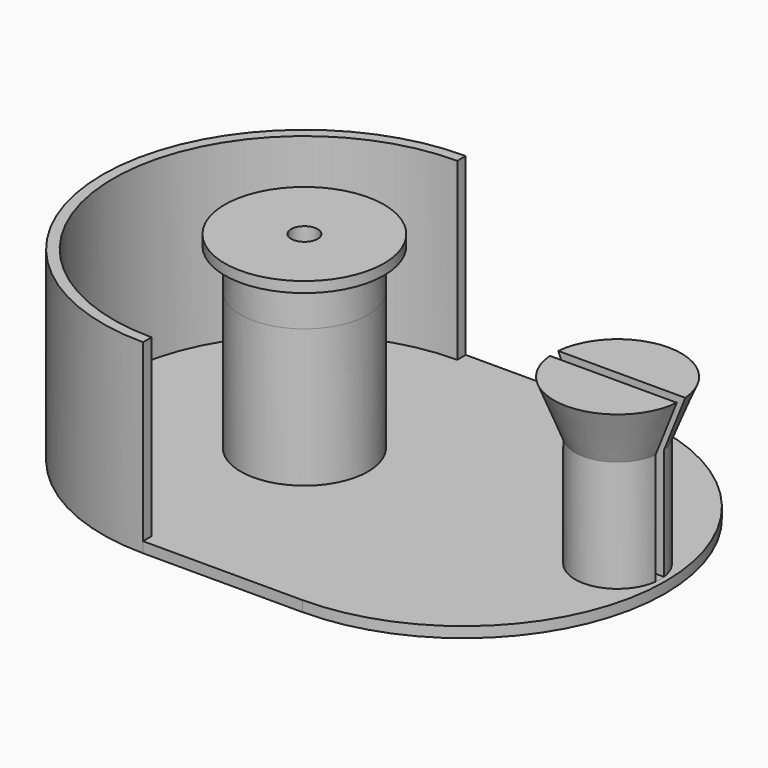
from build123d import *

# Parameters (mm, degrees)
EXTRUDE_DEPTH     = 4
CYLINDER004_R     = 2.5
CYLINDER004_DEPTH = 30
BOX_W             = 30
BOX_H             = 76
BOX_DEPTH         = 2
CYLINDER003_W     = 36
CYLINDER003_H     = 35
CYLINDER003_ANGLE = 180
CYLINDER_W        = 38
CYLINDER_H        = 35
CYLINDER_ANGLE    = 180
CYLINDER005_W     = 38
CYLINDER005_H     = 2
CYLINDER005_ANGLE = 180
CYLINDER001_R     = 12
CYLINDER001_DEPTH = 28
BOX001_W          = 30
BOX001_H          = 2
BOX001_DEPTH      = 35
CYLINDER002_R     = 8
CYLINDER002_DEPTH = 32
CYLINDER007_R     = 2.5
CYLINDER007_DEPTH = 30
CYLINDER006_R     = 12
CYLINDER006_DEPTH = 9
CYLINDER008_R     = 15
CYLINDER008_DEPTH = 2


with BuildPart() as cone:
    # Cone → Cone (revolve)
    with BuildSketch(Plane.XZ):
        Polygon((0, 0), (10, 0), (2.5, 21), (0, 21), align=None)
    revolve(axis=Axis((0, 0, 0), (0, 0, 1)))


with BuildPart() as nut_extrude:
    # RegularPolygon → Extrude (new body)
    with BuildSketch(Plane(origin=(0, 0, 0), x_dir=(0, 1, 0), z_dir=(0, 0, 1))):
        Polygon((0, -4.25), (3.680608, -2.125), (3.680608, 2.125), (0, 4.25), (-3.680608, 2.125), (-3.680608, -2.125), align=None)
    extrude(amount=EXTRUDE_DEPTH)


with BuildPart() as nut_extrude_1:
    # Extrude placement: moved
    add(nut_extrude.part.moved(Location((0, 0, 24))))


with BuildPart() as central_hole_fusion:
    # Cylinder004 → Cylinder004 (new body)
    with BuildSketch(Plane.XY):
        Circle(CYLINDER004_R)
    extrude(amount=CYLINDER004_DEPTH)

    # Fusion: union Cone, nut extrude
    add(cone.part)
    add(nut_extrude_1.part)


with BuildPart() as bottom_cube:
    # Box → Box (new body)
    with BuildSketch(Plane(origin=(0, -38, 0), x_dir=(1, 0, 0), z_dir=(0, 0, 1))):
        with Locations((15, 38)):
            Rectangle(BOX_W, BOX_H)
    extrude(amount=BOX_DEPTH)


with BuildPart() as extraction_cylinder:
    # Cylinder003 → Cylinder003 (revolve)
    with BuildSketch(Plane(origin=(0, 0, 2), x_dir=(0, 1, 0), z_dir=(1, 0, 0))):
        with Locations((18, 17.5)):
            Rectangle(CYLINDER003_W, CYLINDER003_H)
    revolve(axis=Axis((0, 0, 2), (0, 0, 1)), revolution_arc=CYLINDER003_ANGLE)


with BuildPart() as outer_bottom_cylinder_cut:
    # Cylinder → Cylinder (revolve)
    with BuildSketch(Plane.YZ):
        with Locations((19, 17.5)):
            Rectangle(CYLINDER_W, CYLINDER_H)
    revolve(axis=Axis((0, 0, 0), (0, 0, 1)), revolution_arc=CYLINDER_ANGLE)

    # Cut: cut extraction cylinder
    add(extraction_cylinder.part, mode=Mode.SUBTRACT)


with BuildPart() as other_side_cylinder:
    # Cylinder005 → Cylinder005 (revolve)
    with BuildSketch(Plane(origin=(30, 0, 0), x_dir=(0, -1, 0), z_dir=(-1, 0, 0))):
        with Locations((19, 1)):
            Rectangle(CYLINDER005_W, CYLINDER005_H)
    revolve(axis=Axis((30, 0, 0), (0, 0, 1)), revolution_arc=CYLINDER005_ANGLE)


with BuildPart() as drum_cut:
    # Cylinder001 → Cylinder001 (new body)
    with BuildSketch(Plane.XY):
        Circle(CYLINDER001_R)
    extrude(amount=CYLINDER001_DEPTH)

    # Fusion001: union bottom cube, outer bottom cylinder cut, other side cylinder
    add(bottom_cube.part)
    add(outer_bottom_cylinder_cut.part)
    add(other_side_cylinder.part)

    # Cut001: cut central hole fusion
    add(central_hole_fusion.part, mode=Mode.SUBTRACT)


with BuildPart() as cut_cube:
    # Box001 → Box001 (new body)
    with BuildSketch(Plane(origin=(43, -1, 2), x_dir=(1, 0, 0), z_dir=(0, 0, 1))):
        with Locations((15, 1)):
            Rectangle(BOX001_W, BOX001_H)
    extrude(amount=BOX001_DEPTH)


with BuildPart() as other_wire_cylinder:
    # Cylinder002 → Cylinder002 (new body)
    with BuildSketch(Plane(origin=(59, 0, 0), x_dir=(1, 0, 0), z_dir=(0, 0, 1))):
        Circle(CYLINDER002_R)
    extrude(amount=CYLINDER002_DEPTH)


with BuildPart() as other_wire_cut:
    # Cone001 → Cone001 (revolve)
    with BuildSketch(Plane(origin=(59, 0, 23), x_dir=(1, 0, 0), z_dir=(0, -1, 0))):
        Polygon((0, 0), (8, 0), (12, 10), (0, 10), align=None)
    revolve(axis=Axis((59, 0, 23), (0, 0, 1)))

    # Fusion002: union other wire cylinder
    add(other_wire_cylinder.part)

    # Cut002: cut cut cube
    add(cut_cube.part, mode=Mode.SUBTRACT)


with BuildPart() as top_center_hole:
    # Cylinder007 → Cylinder007 (new body)
    with BuildSketch(Plane.XY.offset(17)):
        Circle(CYLINDER007_R)
    extrude(amount=CYLINDER007_DEPTH)


with BuildPart() as top_center_cylinder:
    # Cylinder006 → Cylinder006 (new body)
    with BuildSketch(Plane.XY.offset(28)):
        Circle(CYLINDER006_R)
    extrude(amount=CYLINDER006_DEPTH)


with BuildPart() as top_part_cut:
    # Cylinder008 → Cylinder008 (new body)
    with BuildSketch(Plane.XY.offset(35.5)):
        Circle(CYLINDER008_R)
    extrude(amount=CYLINDER008_DEPTH)

    # Fusion003: union top center cylinder
    add(top_center_cylinder.part)

    # Cut003: cut top center hole
    add(top_center_hole.part, mode=Mode.SUBTRACT)


solid = Compound([drum_cut.part, other_wire_cut.part, top_part_cut.part])
